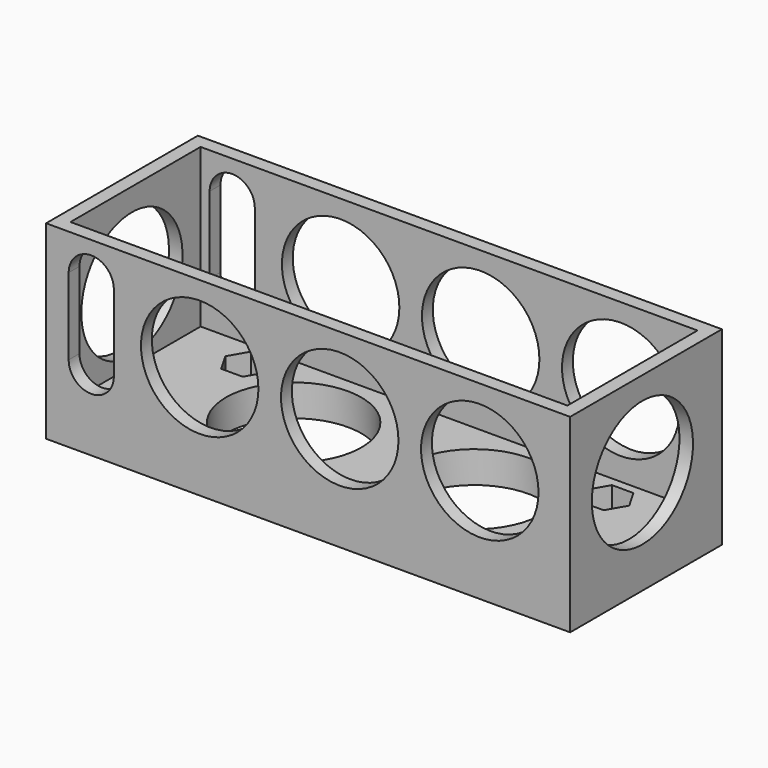
from build123d import *

# Parameters (mm, degrees)
SKETCH_W        = 116
SKETCH_H        = 42
PAD_DEPTH       = 42
SKETCH005_W     = 110
SKETCH005_H     = 36
POCKET_DEPTH    = 35
SKETCH006_R     = 1.75
SKETCH006_R_2   = 15
POCKET001_DEPTH = 7.001
POCKET002_DEPTH = 5
SKETCH007_R     = 13
POCKET003_DEPTH = 42.001
SKETCH008_R     = 14
POCKET004_DEPTH = 116.001


with BuildPart() as part:
    # Sketch → Pad (new body)
    with BuildSketch(Plane.XZ):
        with Locations((0, 21)):
            Rectangle(SKETCH_W, SKETCH_H)
    extrude(amount=PAD_DEPTH)

    # Sketch005 → Pocket (cut)
    with BuildSketch(Plane(origin=(0, 0, 42), x_dir=(-1, 0, 0), z_dir=(0, 0, 1))):
        with Locations((0, 21)):
            Rectangle(SKETCH005_W, SKETCH005_H)
    extrude(amount=-POCKET_DEPTH, mode=Mode.SUBTRACT)

    # Sketch006 → Pocket001 (cut, through all)
    with BuildSketch(Plane(origin=(0, 0, 7), x_dir=(-1, 0, 0), z_dir=(0, 0, 1))):
        with Locations((-40, 33.5)):
            Circle(SKETCH006_R)
        with Locations((40, 33.5)):
            Circle(SKETCH006_R)
        with Locations((-40, 9)):
            Circle(SKETCH006_R)
        with Locations((40, 9)):
            Circle(SKETCH006_R)
        with Locations((-20, 21)):
            Circle(SKETCH006_R_2)
        with Locations((20, 21)):
            Circle(SKETCH006_R_2)
    extrude(amount=-POCKET001_DEPTH, mode=Mode.SUBTRACT)

    # Sketch011 → Pocket002 (cut)
    with BuildSketch(Plane(origin=(0, 0, 7), x_dir=(-1, 0, 0), z_dir=(0, 0, 1))):
        Polygon((-42.373287, 37.679591), (-37.615921, 37.679591), (-35.237238, 33.559591), (-37.615921, 29.439591), (-42.373287, 29.439591), (-44.75197, 33.559591), align=None)
        Polygon((37.627177, 37.64135), (42.384544, 37.64135), (44.763227, 33.52135), (42.384544, 29.40135), (37.627177, 29.40135), (35.248494, 33.52135), align=None)
        Polygon((37.575129, 13.14135), (42.332495, 13.14135), (44.711178, 9.02135), (42.332495, 4.90135), (37.575129, 4.90135), (35.196446, 9.02135), align=None)
        Polygon((-42.367844, 13.179591), (-37.610478, 13.179591), (-35.231795, 9.059591), (-37.610478, 4.939591), (-42.367844, 4.939591), (-44.746527, 9.059591), align=None)
    extrude(amount=-POCKET002_DEPTH, mode=Mode.SUBTRACT)

    # Sketch007 → Pocket003 (cut, through all)
    with BuildSketch(Plane(origin=(0, 0, 0), x_dir=(1, 0, 0), z_dir=(0, 1, 0))):
        with Locations((-24, -25)):
            Circle(SKETCH007_R)
        with Locations((7, -25)):
            Circle(SKETCH007_R)
        with Locations((38, -25)):
            Circle(SKETCH007_R)
        with BuildLine():
            ThreePointArc((-43, -16.999991), (-48, -12), (-53, -16.999992))
            Line((-53, -16.999992), (-53, -33.999979))
            ThreePointArc((-53, -33.999979), (-48, -39), (-43, -33.999978))
            Line((-43, -16.999991), (-43, -33.999978))
        make_face()
    extrude(amount=-POCKET003_DEPTH, mode=Mode.SUBTRACT)

    # Sketch008 → Pocket004 (cut, through all)
    with BuildSketch(Plane(origin=(-58, 0, 0), x_dir=(0, 0, -1), z_dir=(-1, 0, 0))):
        with Locations((-23, 22)):
            Circle(SKETCH008_R)
    extrude(amount=-POCKET004_DEPTH, mode=Mode.SUBTRACT)


solid = part.part
